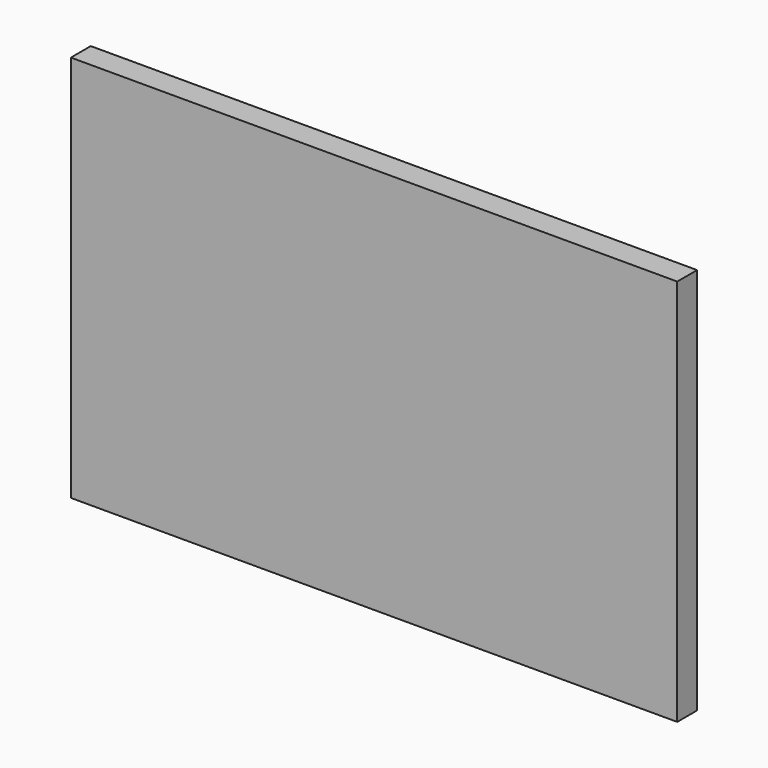
from build123d import *

# Parameters (mm, degrees)
F0_W     = 122
F0_H     = 78
F1_DEPTH = 5


with BuildPart() as f1:
    # F0 (on Front) → F1 (new body)
    with BuildSketch(Plane.XZ):
        with Locations((61, -39)):
            Rectangle(F0_W, F0_H)
    extrude(amount=F1_DEPTH)


with BuildPart() as f1_1:
    # F2: moved
    add(f1.part)


solid = f1_1.part
